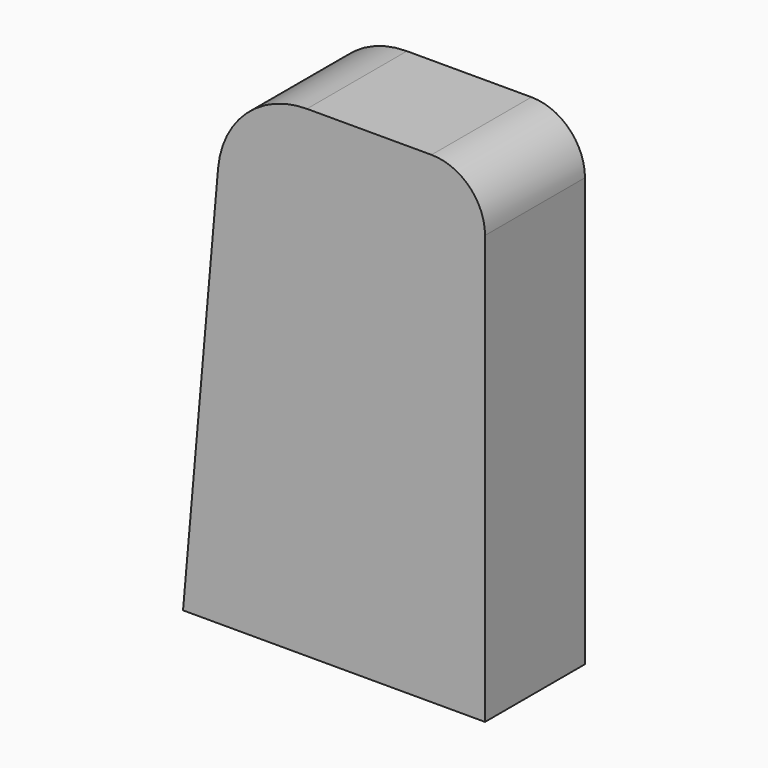
from build123d import *

# Parameters (mm, degrees)
BOX_W               = 20
BOX_H               = 20
BOX_DEPTH           = 40
BOX_PLACEMENT_ANGLE = 5
BOX001_W            = 17
BOX001_H            = 7
BOX001_DEPTH        = 27
FILLET_R            = 5
FILLET001_R         = 3


with BuildPart() as cube:
    # Box → Box (new body)
    with BuildSketch(Plane.XY):
        with Locations((10, 10)):
            Rectangle(BOX_W, BOX_H)
    extrude(amount=BOX_DEPTH)


with BuildPart() as cube_1:
    # Box placement: moved
    add(cube.part.moved(Location((-20, 0, 0))).rotate(Axis((-20, 0, 0), (0, 1, 0)), BOX_PLACEMENT_ANGLE))


with BuildPart() as fillet001:
    # Box001 → Box001 (new body)
    with BuildSketch(Plane.XY):
        with Locations((8.5, 3.5)):
            Rectangle(BOX001_W, BOX001_H)
    extrude(amount=BOX001_DEPTH)

    # Cut: cut Cube
    add(cube_1.part, mode=Mode.SUBTRACT)

    # Fillet
    fillet_edges = [fillet001.edges().sort_by_distance(p)[0] for p in [
        (2.438591, 3.5, 27),
    ]]
    fillet(fillet_edges, radius=FILLET_R)

    # Fillet001
    fillet001_edges = [fillet001.edges().sort_by_distance(p)[0] for p in [
        (17, 3.5, 27),
    ]]
    fillet(fillet001_edges, radius=FILLET001_R)


solid = fillet001.part
